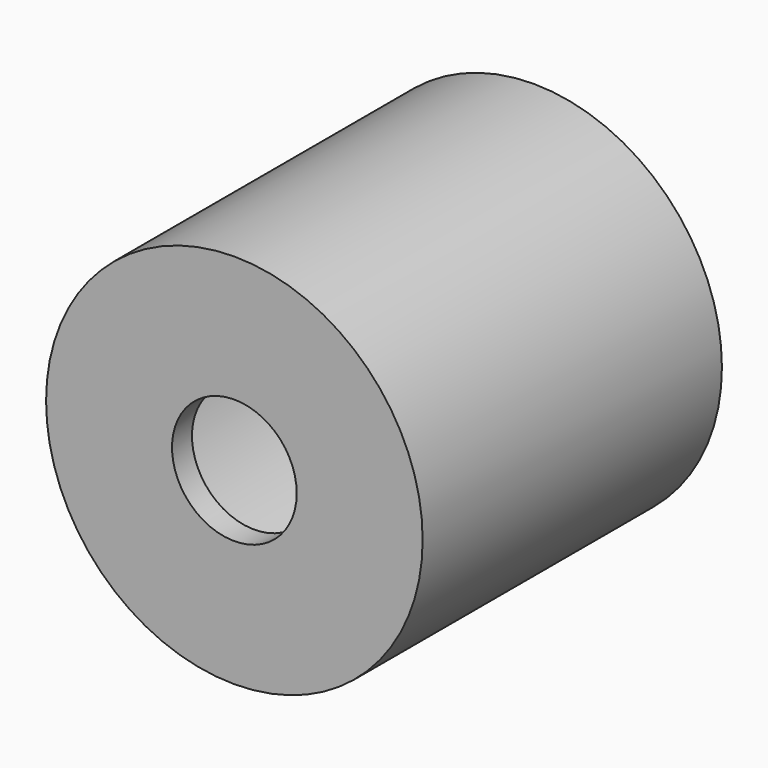
from build123d import *

# Parameters (mm, degrees)
F0_R     = 19.177
F0_R_2   = 17.526
F1_DEPTH = 38.1
F2_R     = 17.526
F3_DEPTH = 2.54
F4_R     = 6.35
F5_DEPTH = 25.4


with BuildPart() as f1:
    # F0 (on Front) → F1 (new body)
    with BuildSketch(Plane.XZ):
        Circle(F0_R)
        Circle(F0_R_2, mode=Mode.SUBTRACT)
    extrude(amount=-F1_DEPTH)

    # F2 (on Front) → F3 (join)
    with BuildSketch(Plane.XZ):
        Circle(F2_R)
    extrude(amount=-F3_DEPTH)

    # F4 (on face) → F5 (cut)
    with BuildSketch(Plane.XZ):
        Circle(F4_R)
    extrude(amount=-F5_DEPTH, mode=Mode.SUBTRACT)


solid = f1.part
